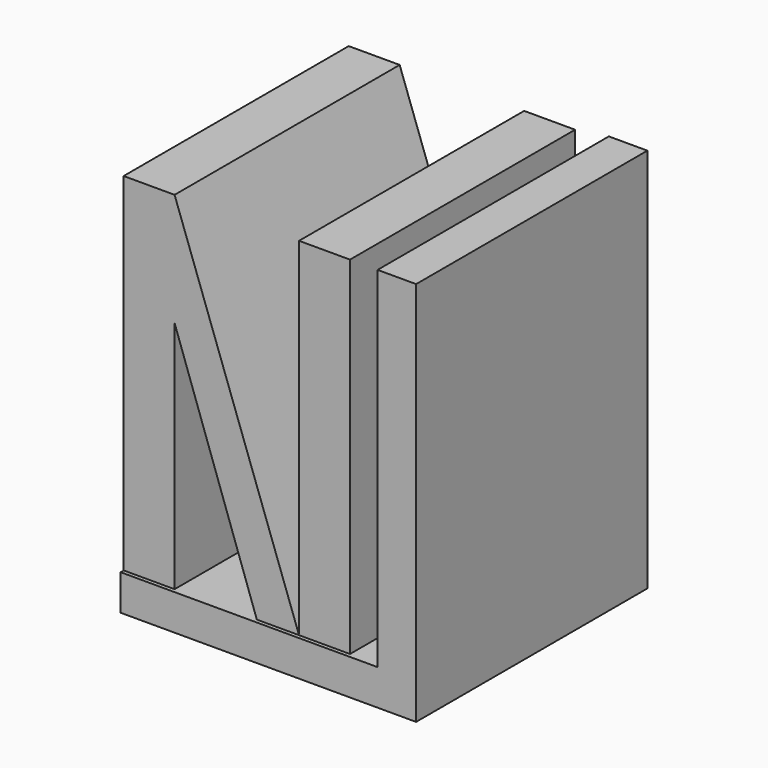
from build123d import *

# Parameters (mm, degrees)
F0_W     = 114.3
F0_H     = 152.4
F1_DEPTH = 15.24
F2_W     = 101.6
F2_H     = 14.1224
F3_DEPTH = 57.15
F4_DEPTH = 57.15
F5_W     = 20.146407
F5_H     = 137.283351
F6_DEPTH = 55.626
F7_DEPTH = 55.626


with BuildPart() as f1:
    # F0 (on Right) → F1 (new body)
    with BuildSketch(Plane.YZ):
        Rectangle(F0_W, F0_H)
    extrude(amount=F1_DEPTH)

    # F2 (on Front) → F3 (join)
    with BuildSketch(Plane.XZ):
        with Locations((-50.8, -69.1388)):
            Rectangle(F2_W, F2_H)
    extrude(amount=F3_DEPTH)

    # F2 (on Front) → F4 (join)
    with BuildSketch(Plane.XZ):
        with Locations((-50.8, -69.1388)):
            Rectangle(F2_W, F2_H)
    extrude(amount=-F4_DEPTH)

    # F5 (on Front) → F6 (join)
    with BuildSketch(Plane.XZ):
        Polygon((-101.631984, 75.205751), (-101.631984, -62.0776), (-81.485577, -62.0776), (-81.485577, 30.595854), (-81.485577, 75.205751), align=None)
        with Locations((-22.197589, 6.564075)):
            Rectangle(F5_W, F5_H)
        Polygon((-81.485577, 75.205751), (-81.485577, 30.595854), (-48.963528, -62.0776), (-32.270793, -62.0776), align=None)
    extrude(amount=F6_DEPTH)

    # F5 (on Front) → F7 (join)
    with BuildSketch(Plane.XZ):
        Polygon((-101.631984, 75.205751), (-101.631984, -62.0776), (-81.485577, -62.0776), (-81.485577, 30.595854), (-81.485577, 75.205751), align=None)
        with Locations((-22.197589, 6.564075)):
            Rectangle(F5_W, F5_H)
        Polygon((-81.485577, 75.205751), (-81.485577, 30.595854), (-48.963528, -62.0776), (-32.270793, -62.0776), align=None)
    extrude(amount=-F7_DEPTH)


solid = f1.part
